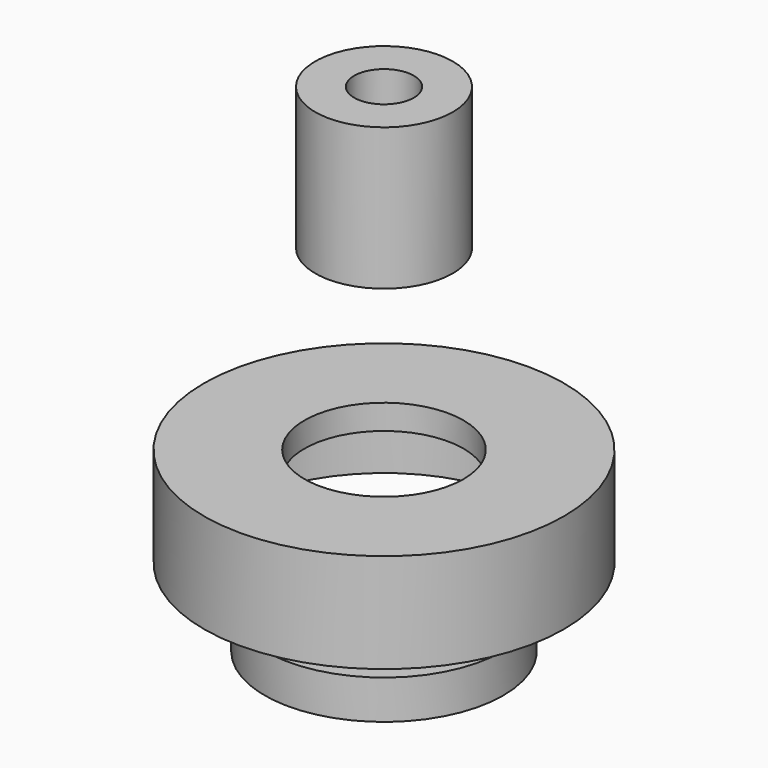
from build123d import *

# Parameters (mm, degrees)
F4_R      = 16.8
F4_R_2    = 11.2
F4_R_3    = 7
F5_DEPTH  = 2
F6_DEPTH  = 5.5
F8_R      = 16.8
F8_R_2    = 11.2
F9_DEPTH  = 3.5
F8_R_3    = 21.35
F10_DEPTH = 2
F8_R_4    = 25.35
F11_DEPTH = 14
F13_R     = 9.6787585802
F13_R_2   = 4.2
F14_DEPTH = 20
F15_DEPTH = 3.2


with BuildPart() as f5:
    # F4 (on Top) → F5 (new body)
    with BuildSketch(Plane.XY):
        Circle(F4_R)
        Circle(F4_R_2, mode=Mode.SUBTRACT)
        Circle(F4_R_2)
        Circle(F4_R_3, mode=Mode.SUBTRACT)
    extrude(amount=F5_DEPTH)

    # F4 (on Top) → F6 (join)
    with BuildSketch(Plane.XY):
        Circle(F4_R)
        Circle(F4_R_2, mode=Mode.SUBTRACT)
    extrude(amount=F6_DEPTH)


with BuildPart() as f9:
    # F8 (on offset) → F9 (new body)
    with BuildSketch(Plane.XY.offset(25)):
        Circle(F8_R)
        Circle(F8_R_2, mode=Mode.SUBTRACT)
    extrude(amount=-F9_DEPTH)

    # F8 (on offset) → F10 (join)
    with BuildSketch(Plane.XY.offset(25)):
        Circle(F8_R_3)
        Circle(F8_R, mode=Mode.SUBTRACT)
    extrude(amount=-F10_DEPTH)

    # F8 (on offset) → F11 (join)
    with BuildSketch(Plane.XY.offset(25)):
        Circle(F8_R_4)
        Circle(F8_R_3, mode=Mode.SUBTRACT)
    extrude(amount=-F11_DEPTH)


with BuildPart() as f14:
    # F13 (on offset) → F14 (new body)
    with BuildSketch(Plane.XY.offset(50)):
        Circle(F13_R)
        Polygon((0, 7.6787585802), (6.65, 3.8393792901), (6.65, -3.8393792901), (0, -7.6787585802), (-6.65, -3.8393792901), (-6.65, 3.8393792901), align=None, mode=Mode.SUBTRACT)
        Polygon((6.65, -3.8393792901), (6.65, 3.8393792901), (0, 7.6787585802), (-6.65, 3.8393792901), (-6.65, -3.8393792901), (0, -7.6787585802), align=None)
        Circle(F13_R_2, mode=Mode.SUBTRACT)
    extrude(amount=F14_DEPTH)

    # F13 (on offset) → F15 (cut)
    with BuildSketch(Plane.XY.offset(50)):
        Polygon((6.65, -3.8393792901), (6.65, 3.8393792901), (0, 7.6787585802), (-6.65, 3.8393792901), (-6.65, -3.8393792901), (0, -7.6787585802), align=None)
        Circle(F13_R_2, mode=Mode.SUBTRACT)
    extrude(amount=F15_DEPTH, mode=Mode.SUBTRACT)


solid = Compound([f5.part, f9.part, f14.part])
